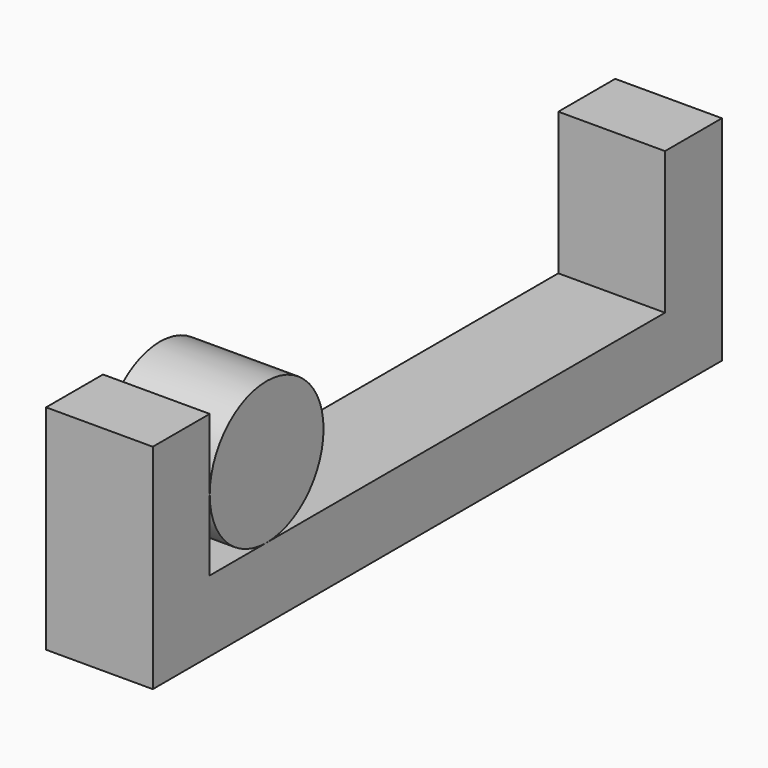
from build123d import *

# Parameters (mm, degrees)
F1_DEPTH = 30


with BuildPart() as f1:
    # F0 (on Right) → F1 (new body)
    with BuildSketch(Plane.YZ):
        Polygon((-80, 20), (-100, 20), (-100, -40), (100, -40), (100, 20), (80, 20), (80, -20), (-60, -20), (-80, -20), (-80, 0), align=None)
        with BuildLine():
            ThreePointArc((-40, 0), (-60, 20), (-80, 0))
            ThreePointArc((-80, 0), (-74.142136, -14.142136), (-60, -20))
            ThreePointArc((-60, -20), (-45.857864, -14.142136), (-40, 0))
        make_face()
    extrude(amount=F1_DEPTH)


solid = f1.part
